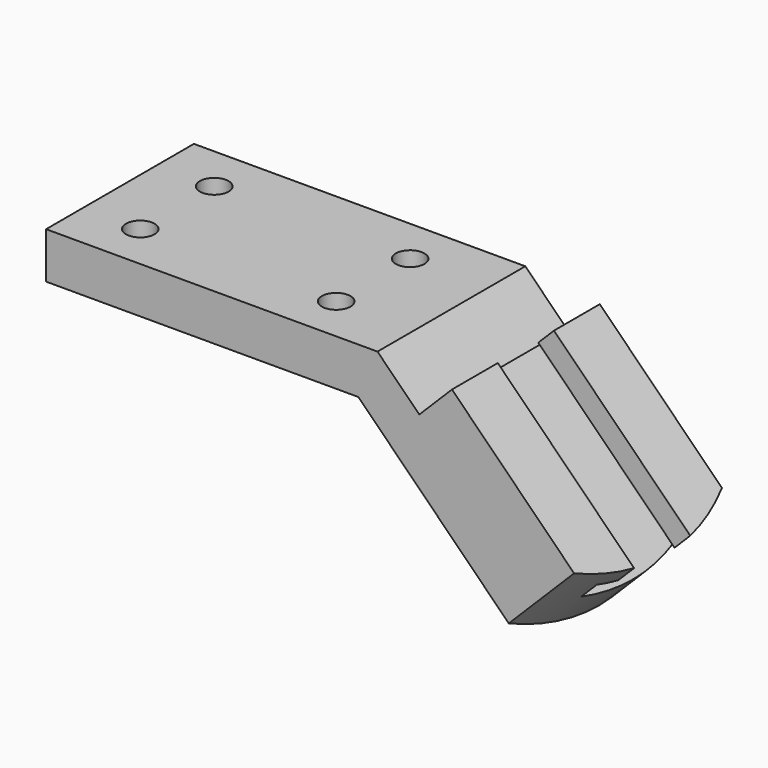
from build123d import *

# Parameters (mm, degrees)
F1_DEPTH       = 50.8
F3_D           = 7.874
F3_CBORE_D     = 12.7
F3_CBORE_DEPTH = 6.096
F6_DEPTH       = 134.531275
F8_DEPTH       = 54.103


with BuildPart() as f1:
    # F0 (on Front) → F1 (new body)
    with BuildSketch(Plane.XZ):
        Polygon((0, 12.7), (0, 0), (85.852, 0), (131.70327, -45.85127), (149.663782, -27.890758), (111.587496, 10.185528), (102.60724, 1.205272), (91.112512, 12.7), align=None)
    extrude(amount=F1_DEPTH)

    # F3 (through all)
    with Locations(Plane(origin=(0, 0, 0), x_dir=(1, 0, 0), z_dir=(0, 0, -1))):
        with Locations((15.748, 38.1), (69.596, 38.1), (69.596, 12.7), (15.748, 12.7)):
            CounterBoreHole(F3_D / 2, F3_CBORE_D / 2, F3_CBORE_DEPTH)

    # F5 (on face) → F6 (cut, through all)
    with BuildSketch(Plane(origin=(88.77727, 0, -88.77727), x_dir=(0, 1, 0), z_dir=(0.707107, 0, -0.707107))):
        Polygon((-15.748, 86.106531), (-35.052, 86.106531), (-35.052, 80.010531), (-41.148, 80.010531), (-41.148, 73.914531), (-9.652, 73.914531), (-9.652, 80.010531), (-15.748, 80.010531), align=None)
    extrude(amount=-F6_DEPTH, mode=Mode.SUBTRACT)

    # F7 (on face) → F8 (cut, through all)
    with BuildSketch(Plane(origin=(42.926, 0, 42.926), x_dir=(0.707107, 0, -0.707107), z_dir=(-0.707107, 0, -0.707107))):
        with BuildLine():
            ThreePointArc((119.183037, 50.8), (123.934026, 38.492922), (125.550019, 25.4))
            Line((125.550019, 25.4), (125.550019, 50.8))
            Line((125.550019, 50.8), (119.183037, 50.8))
        make_face()
        with BuildLine():
            ThreePointArc((125.550019, 25.4), (123.934026, 12.307078), (119.183037, 0))
            Line((119.183037, 0), (125.550019, 0))
            Line((125.550019, 0), (125.550019, 25.4))
        make_face()
    extrude(amount=-F8_DEPTH, mode=Mode.SUBTRACT)


solid = f1.part
